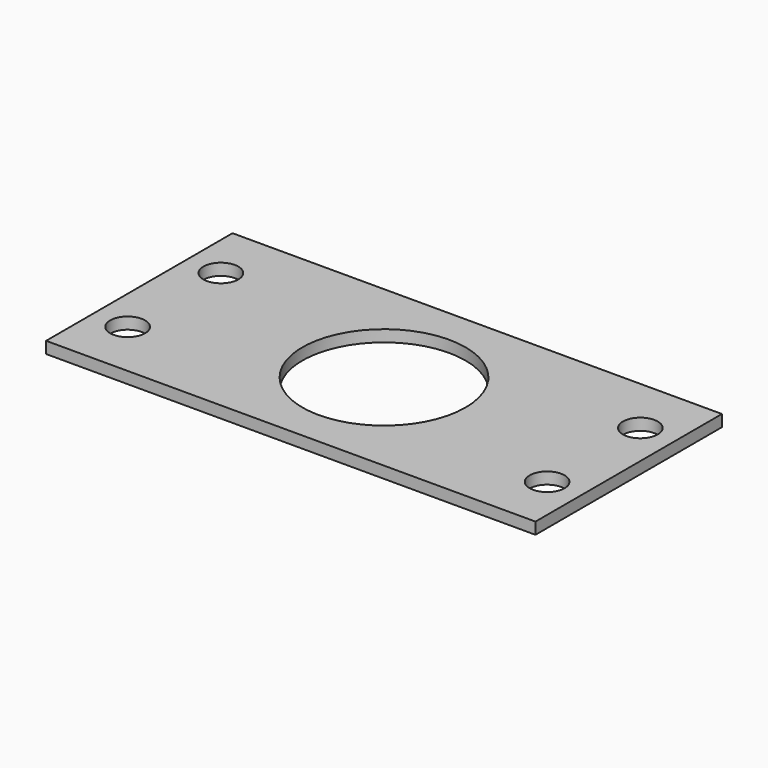
from build123d import *

# Parameters (mm, degrees)
CYLINDER1639_R     = 1.5
CYLINDER1639_DEPTH = 60
CYLINDER1640_R     = 1.5
CYLINDER1640_DEPTH = 60
CYLINDER1641_R     = 1.5
CYLINDER1641_DEPTH = 60
CYLINDER1638_R     = 1.5
CYLINDER1638_DEPTH = 60
CYLINDER1628_R     = 7
CYLINDER1628_DEPTH = 48
BOX655_W           = 42
BOX655_H           = 20
BOX655_DEPTH       = 1


with BuildPart() as obj1:
    # Cylinder1639 → Cylinder1639 (new body)
    with BuildSketch(Plane(origin=(18, 85, -57), x_dir=(1, 0, 0), z_dir=(0, 0, 1))):
        Circle(CYLINDER1639_R)
    extrude(amount=CYLINDER1639_DEPTH)


with BuildPart() as obj2:
    # Cylinder1640 → Cylinder1640 (new body)
    with BuildSketch(Plane(origin=(-18, 85, -57), x_dir=(1, 0, 0), z_dir=(0, 0, 1))):
        Circle(CYLINDER1640_R)
    extrude(amount=CYLINDER1640_DEPTH)


with BuildPart() as obj3:
    # Cylinder1641 → Cylinder1641 (new body)
    with BuildSketch(Plane(origin=(-18, 95, -57), x_dir=(1, 0, 0), z_dir=(0, 0, 1))):
        Circle(CYLINDER1641_R)
    extrude(amount=CYLINDER1641_DEPTH)


with BuildPart() as compound810:
    # Cylinder1638 → Cylinder1638 (new body)
    with BuildSketch(Plane(origin=(18, 95, -57), x_dir=(1, 0, 0), z_dir=(0, 0, 1))):
        Circle(CYLINDER1638_R)
    extrude(amount=CYLINDER1638_DEPTH)

    # Compound810: union obj1, obj2, obj3
    add(obj1.part)
    add(obj2.part)
    add(obj3.part)


with BuildPart() as obj4:
    # Cylinder1628 → Cylinder1628 (new body)
    with BuildSketch(Plane(origin=(0, 90, -55), x_dir=(1, 0, 0), z_dir=(0, 0, 1))):
        Circle(CYLINDER1628_R)
    extrude(amount=CYLINDER1628_DEPTH)


with BuildPart() as j_max_encoder_washer:
    # Box655 → Box655 (new body)
    with BuildSketch(Plane(origin=(-21, 80, -39), x_dir=(1, 0, 0), z_dir=(0, 0, 1))):
        with Locations((21, 10)):
            Rectangle(BOX655_W, BOX655_H)
    extrude(amount=BOX655_DEPTH)

    # Cut317: cut obj4
    add(obj4.part, mode=Mode.SUBTRACT)

    # Cut322: cut Compound810
    add(compound810.part, mode=Mode.SUBTRACT)


solid = j_max_encoder_washer.part
